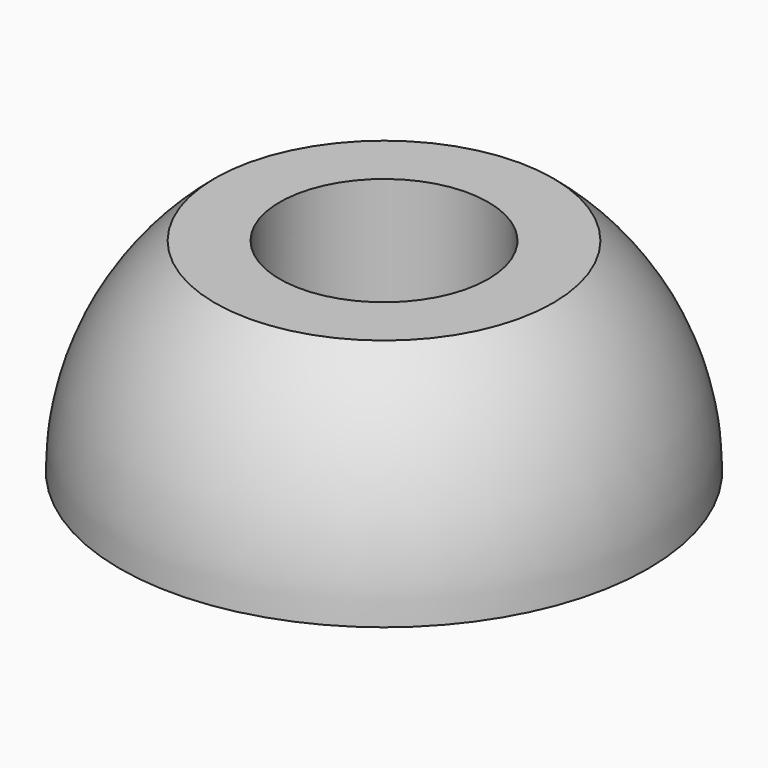
from build123d import *


with BuildPart() as f1:
    # F0 (on Front) → F1 (revolve)
    with BuildSketch(Plane.XZ):
        with BuildLine():
            Line((4.7625, 0), (12.065, 0))
            ThreePointArc((12.065, 0), (10.925138, 5.11914), (7.720932, 9.271))
            Line((7.720932, 9.271), (4.7625, 9.271))
            Line((4.7625, 9.271), (4.7625, 0))
        make_face()
    revolve(axis=Axis((0, 0, 4.6355), (0, 0, 1)))


solid = f1.part
